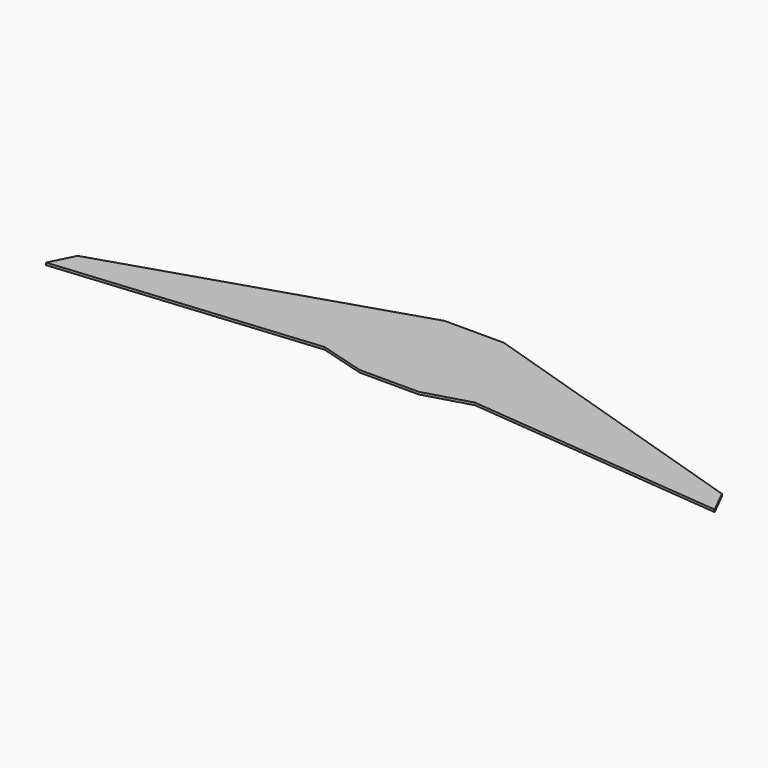
from build123d import *

# Parameters (mm, degrees)
F1_DEPTH = 0.508


with BuildPart() as f1:
    # F0 (on Top) → F1 (new body)
    with BuildSketch(Plane.XY):
        Polygon((5.403131, 35.311371), (0, 35.311371), (0, 12.388997), (6.385518, 12.388997), (16.209392, 15.227006), (72.096325, 9.987606), (69.476619, 15.227006), (6.385518, 35.311371), align=None)
        Polygon((0, 35.311371), (-5.403131, 35.311371), (-6.385518, 35.311371), (-69.476619, 15.227006), (-72.096325, 9.987606), (-16.209392, 15.227006), (-6.385518, 12.388997), (0, 12.388997), align=None)
    extrude(amount=F1_DEPTH)


solid = f1.part
